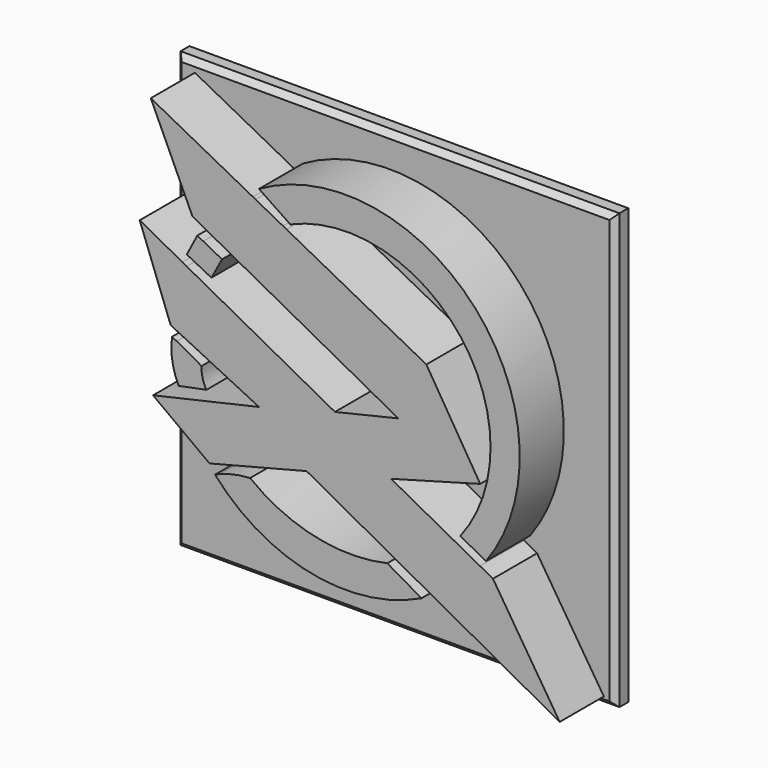
from build123d import *

# Parameters (mm, degrees)
F1_DEPTH = 12.7
F2_W     = 101.055275
F2_H     = 100.107301
F3_DEPTH = 3.81
F4_SIZE  = 1.27


with BuildPart() as f1:
    # F0 (on Front) → F1 (new body)
    with BuildSketch(Plane.XZ):
        Polygon((-35.777155, 35.532784), (-59.295878, 47.891356), (-49.700695, 27.037437), (-47.500801, 25.852879), (-2.298983, 1.513438), (-16.886974, -1.914341), (-51.027356, 16.487568), (-52.019487, 17.022334), (-61.846677, 22.319259), (-54.721754, 3.376882), (-53.6238, 2.838316), (-34.378473, -6.601848), (-58.778383, -12.165563), (-45.774035, -21.751242), (-44.033876, -21.3066), (-23.419714, -16.039314), (34.866069, -47.924664), (19.491419, -23.895705), (16.512845, -22.291857), (-3.957492, -11.269368), (16.560305, -5.632611), (4.15944, 14.54698), (-28.041071, 31.467642), (-28.850746, 31.893108), (-35.175598, 35.216679), align=None)
        with BuildLine():
            ThreePointArc((-53.305935, 0.560932), (-53.850765, 0.84994), (-54.396643, 1.136963))
            ThreePointArc((-54.396643, 1.136963), (-54.356654, -3.721866), (-52.881577, -8.351549))
            ThreePointArc((-52.881577, -8.351549), (-49.696834, -7.694424), (-46.504783, -7.073763))
            ThreePointArc((-46.504783, -7.073763), (-47.383367, -4.921864), (-47.620802, -2.609679))
            ThreePointArc((-47.620802, -2.609679), (-50.448146, -0.997078), (-53.305935, 0.560932))
        make_face()
        Polygon((-47.202257, 22.813042), (-48.572631, 23.533143), (-51.00082, 18.912229), (-49.995659, 18.401638), (-45.337372, 16.035374), (-42.902117, 20.553413), align=None)
        with BuildLine():
            ThreePointArc((17.877233, -20.86272), (15.461552, 29.564334), (-34.378473, 37.607666))
            Line((-34.378473, 37.607666), (-33.818354, 37.230089))
            Line((-33.818354, 37.230089), (-27.929191, 33.260194))
            Line((-27.929191, 33.260194), (-27.175291, 32.751989))
            ThreePointArc((-27.175291, 32.751989), (12.01935, 22.765057), (11.969992, -17.681898))
            Line((11.969992, -17.681898), (16.727284, -20.243517))
            Line((16.727284, -20.243517), (17.877233, -20.86272))
        make_face()
        with BuildLine():
            ThreePointArc((-36.41942, -21.670096), (-40.048735, -22.137262), (-43.549058, -23.203992))
            ThreePointArc((-43.549058, -23.203992), (-44.027037, -23.401335), (-44.500208, -23.609942))
            ThreePointArc((-44.500208, -23.609942), (-22.349599, -36.417166), (3.035236, -33.210202))
            Line((3.035236, -33.210202), (-4.825023, -28.673272))
            ThreePointArc((-4.825023, -28.673272), (-21.403603, -28.696839), (-36.41942, -21.670096))
        make_face()
    extrude(amount=F1_DEPTH)


with BuildPart() as f3:
    # F2 (on face) → F3 (new body)
    with BuildSketch(Plane(origin=(0, 0, 0), x_dir=(-1, 0, 0), z_dir=(0, 1, 0))):
        with Locations((13.0822, 0.284398)):
            Rectangle(F2_W, F2_H)
    extrude(amount=F3_DEPTH)

    # F4
    f4_edges = [f3.edges().sort_by_distance(p)[0] for p in [
        (-13.082201, 0, 50.338048),
        (-63.609838, 0, 0.284398),
        (-13.082201, 0, -49.769253),
        (37.445437, 0, 0.284398),
    ]]
    chamfer(f4_edges, length=F4_SIZE)


solid = Compound([f1.part, f3.part])
